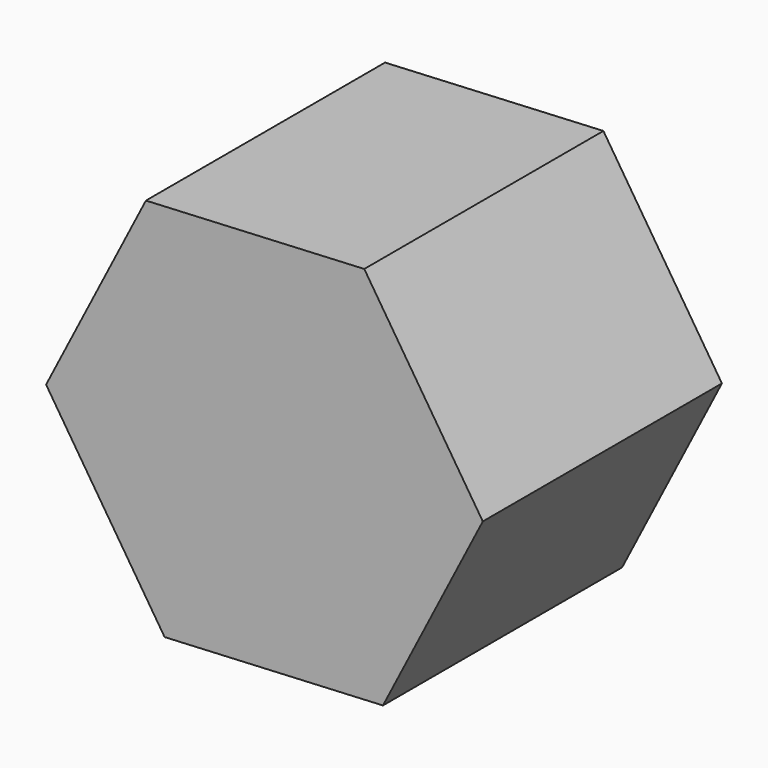
from build123d import *


with BuildPart() as f2:
    # F2: sweep along a path in F1
    with BuildLine(Plane.XY) as f2_path:
        Line((0, 0), (0, 17.78))
    # F0 (on Front) → F2 (sweep)
    with BuildSketch(Plane.XZ):
        Polygon((12.988212, 0.641713), (5.938366, 11.568978), (-7.049845, 10.927265), (-12.988212, -0.641713), (-5.938366, -11.568978), (7.049845, -10.927265), align=None)
    sweep(path=f2_path.line)


solid = f2.part
